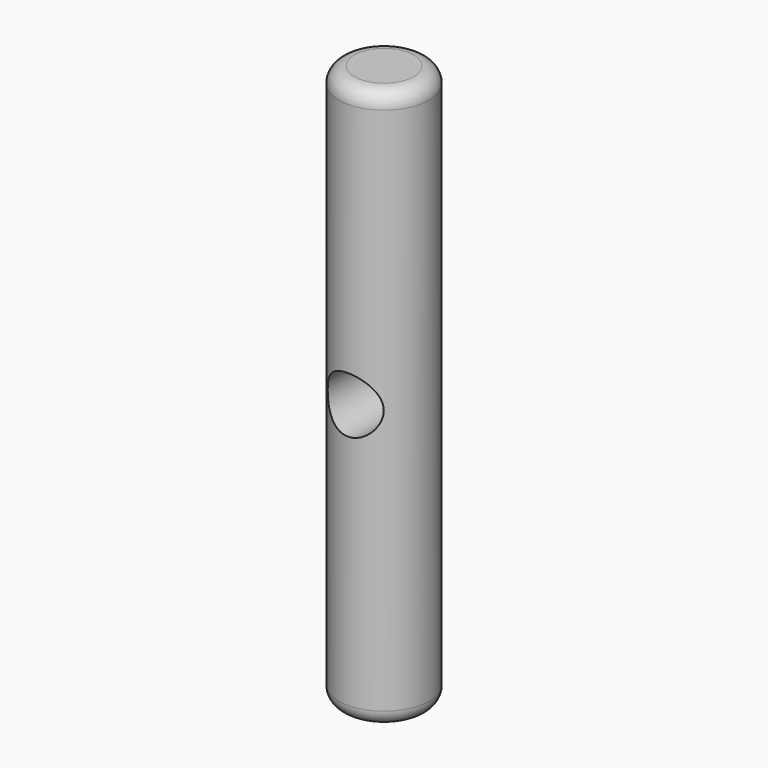
from build123d import *

# Parameters (mm, degrees)
F0_R     = 1.45
F1_DEPTH = 9
F2_R     = 0.9
F3_DEPTH = 12.5
F4_R     = 0.5


with BuildPart() as f1:
    # F0 (on Top) → F1 (new body, symmetric)
    with BuildSketch(Plane.XY):
        Circle(F0_R)
    extrude(amount=F1_DEPTH, both=True)

    # F2 (on Front) → F3 (cut, symmetric)
    with BuildSketch(Plane.XZ):
        Circle(F2_R)
    extrude(amount=F3_DEPTH, both=True, mode=Mode.SUBTRACT)

    # F4
    f4_edges = [f1.edges().sort_by_distance(p)[0] for p in [
        (-1.45, 0, 9),
        (-1.45, 0, -9),
    ]]
    fillet(f4_edges, radius=F4_R)


solid = f1.part
